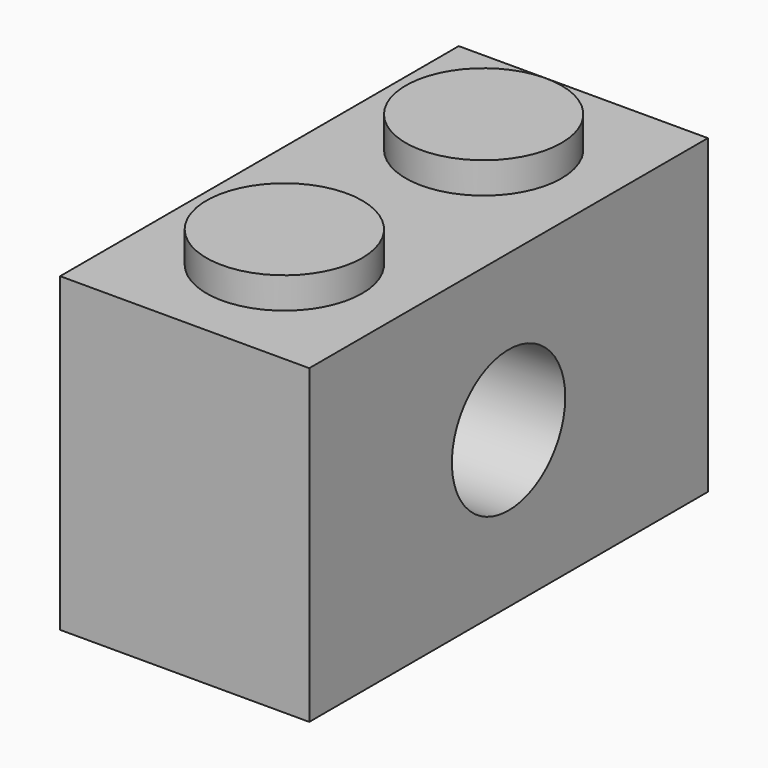
from build123d import *

# Parameters (mm, degrees)
F0_W     = 8
F0_H     = 16
F1_DEPTH = 10
F2_R     = 2.5
F3_DEPTH = 1
F4_T     = -1.5
F6_DEPTH = 10
F7_R     = 2.3
F7_R_2   = 2.275
F8_DEPTH = 8
F9_DEPTH = 8


with BuildPart() as f1:
    # F0 (on Top) → F1 (new body)
    with BuildSketch(Plane.XY):
        with Locations((-6.5223464929, 11.4436195551)):
            Rectangle(F0_W, F0_H)
    extrude(amount=F1_DEPTH)

    # F2 (on face) → F3 (join)
    with BuildSketch(Plane.XY.offset(10)):
        with Locations((-6.5223464929, 7.4436195551)):
            Circle(F2_R)
        with Locations((-6.5223464929, 15.4436195551)):
            Circle(F2_R)
    extrude(amount=F3_DEPTH)

    # F4
    f4_openings = [f1.faces().sort_by_distance(p)[0] for p in [
        (-6.522346, 11.44362, 0),
    ]]
    offset(amount=F4_T, openings=f4_openings, kind=Kind.INTERSECTION)

    # F5 (on face) → F6 (join)
    with BuildSketch(Plane.XY.offset(10)):
        with BuildLine():
            ThreePointArc((-6.5223464929, 9.9436195551), (-5.4616863211, 10.3829593833), (-5.0223464929, 11.4436195551))
            ThreePointArc((-5.0223464929, 11.4436195551), (-5.4616863203, 12.5042797261), (-6.5223464908, 12.9436195551))
            ThreePointArc((-6.5223464908, 12.9436195551), (-8.0223464929, 11.4436195561), (-6.5223464929, 9.9436195551))
        make_face()
    extrude(amount=-F6_DEPTH)

    # F7 (on face) → F8 (join)
    with BuildSketch(Plane.YZ.offset(-2.5223464929)):
        with Locations((11.4436195551, 5)):
            Circle(F7_R)
        with Locations((11.4436195551, 5)):
            Circle(F7_R_2, mode=Mode.SUBTRACT)
    extrude(amount=-F8_DEPTH)

    # F7 (on face) → F9 (cut)
    with BuildSketch(Plane.YZ.offset(-2.5223464929)):
        with Locations((11.4436195551, 5)):
            Circle(F7_R_2)
    extrude(amount=-F9_DEPTH, mode=Mode.SUBTRACT)


solid = f1.part
